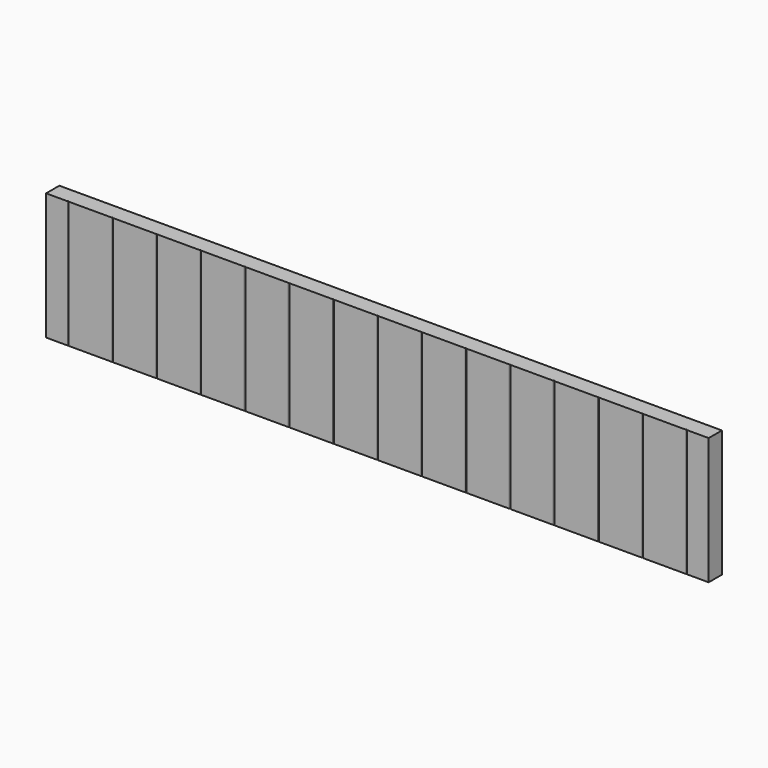
from build123d import *

# Parameters (mm, degrees)
F1_DEPTH = 146.05
F2_W     = 343.069662
F2_H     = 137.227848
F2_W_2   = 304.364362
F2_H_2   = 195.285798
F3_DEPTH = 1143
F4_R     = 0.79375
F5_DEPTH = 25.4


with BuildPart() as f1:
    # F0 (on Top) → F1 (new body)
    with BuildSketch(Plane.XY):
        with BuildLine():
            Line((458.216, -9.525), (508, -9.525))
            Line((508, -9.525), (508, 9.525))
            Line((508, 9.525), (-508, 9.525))
            Line((-508, 9.525), (-508, -8.509))
            ThreePointArc((-508, -8.509), (-507.70242, -9.22742), (-506.984, -9.525))
            Line((-506.984, -9.525), (-458.216, -9.525))
            ThreePointArc((-458.216, -9.525), (-457.49758, -9.22742), (-457.2, -8.509))
            ThreePointArc((-457.2, -8.509), (-456.90242, -9.22742), (-456.184, -9.525))
            Line((-456.184, -9.525), (-407.416, -9.525))
            ThreePointArc((-407.416, -9.525), (-406.69758, -9.22742), (-406.4, -8.509))
            ThreePointArc((-406.4, -8.509), (-406.10242, -9.22742), (-405.384, -9.525))
            Line((-405.384, -9.525), (-356.616, -9.525))
            ThreePointArc((-356.616, -9.525), (-355.89758, -9.22742), (-355.6, -8.509))
            ThreePointArc((-355.6, -8.509), (-355.30242, -9.22742), (-354.584, -9.525))
            Line((-354.584, -9.525), (-305.816, -9.525))
            ThreePointArc((-305.816, -9.525), (-305.09758, -9.22742), (-304.8, -8.509))
            ThreePointArc((-304.8, -8.509), (-304.50242, -9.22742), (-303.784, -9.525))
            Line((-303.784, -9.525), (-255.016, -9.525))
            ThreePointArc((-255.016, -9.525), (-254.29758, -9.22742), (-254, -8.509))
            ThreePointArc((-254, -8.509), (-253.70242, -9.22742), (-252.984, -9.525))
            Line((-252.984, -9.525), (-204.216, -9.525))
            ThreePointArc((-204.216, -9.525), (-203.49758, -9.22742), (-203.2, -8.509))
            ThreePointArc((-203.2, -8.509), (-202.90242, -9.22742), (-202.184, -9.525))
            Line((-202.184, -9.525), (-153.416, -9.525))
            ThreePointArc((-153.416, -9.525), (-152.69758, -9.22742), (-152.4, -8.509))
            ThreePointArc((-152.4, -8.509), (-152.10242, -9.22742), (-151.384, -9.525))
            Line((-151.384, -9.525), (-102.616, -9.525))
            ThreePointArc((-102.616, -9.525), (-101.89758, -9.22742), (-101.6, -8.509))
            ThreePointArc((-101.6, -8.509), (-101.30242, -9.22742), (-100.584, -9.525))
            Line((-100.584, -9.525), (-51.816, -9.525))
            ThreePointArc((-51.816, -9.525), (-51.09758, -9.22742), (-50.8, -8.509))
            ThreePointArc((-50.8, -8.509), (-50.50242, -9.22742), (-49.784, -9.525))
            Line((-49.784, -9.525), (-1.016, -9.525))
            ThreePointArc((-1.016, -9.525), (-0.29758, -9.22742), (0, -8.509))
            ThreePointArc((0, -8.509), (0.29758, -9.22742), (1.016, -9.525))
            Line((1.016, -9.525), (49.784, -9.525))
            ThreePointArc((49.784, -9.525), (50.50242, -9.22742), (50.8, -8.509))
            ThreePointArc((50.8, -8.509), (51.09758, -9.22742), (51.816, -9.525))
            Line((51.816, -9.525), (100.584, -9.525))
            ThreePointArc((100.584, -9.525), (101.30242, -9.22742), (101.6, -8.509))
            ThreePointArc((101.6, -8.509), (101.89758, -9.22742), (102.616, -9.525))
            Line((102.616, -9.525), (151.384, -9.525))
            ThreePointArc((151.384, -9.525), (152.10242, -9.22742), (152.4, -8.509))
            ThreePointArc((152.4, -8.509), (152.69758, -9.22742), (153.416, -9.525))
            Line((153.416, -9.525), (202.184, -9.525))
            ThreePointArc((202.184, -9.525), (202.90242, -9.22742), (203.2, -8.509))
            ThreePointArc((203.2, -8.509), (203.49758, -9.22742), (204.216, -9.525))
            Line((204.216, -9.525), (252.984, -9.525))
            ThreePointArc((252.984, -9.525), (253.70242, -9.22742), (254, -8.509))
            ThreePointArc((254, -8.509), (254.29758, -9.22742), (255.016, -9.525))
            Line((255.016, -9.525), (303.784, -9.525))
            ThreePointArc((303.784, -9.525), (304.50242, -9.22742), (304.8, -8.509))
            ThreePointArc((304.8, -8.509), (305.09758, -9.22742), (305.816, -9.525))
            Line((305.816, -9.525), (354.584, -9.525))
            ThreePointArc((354.584, -9.525), (355.30242, -9.22742), (355.6, -8.509))
            ThreePointArc((355.6, -8.509), (355.89758, -9.22742), (356.616, -9.525))
            Line((356.616, -9.525), (405.384, -9.525))
            ThreePointArc((405.384, -9.525), (406.10242, -9.22742), (406.4, -8.509))
            ThreePointArc((406.4, -8.509), (406.69758, -9.22742), (407.416, -9.525))
            Line((407.416, -9.525), (456.184, -9.525))
            ThreePointArc((456.184, -9.525), (456.90242, -9.22742), (457.2, -8.509))
            ThreePointArc((457.2, -8.509), (457.49758, -9.22742), (458.216, -9.525))
        make_face()
        with BuildLine():
            ThreePointArc((-506.984, -9.525), (-507.70242, -9.22742), (-508, -8.509))
            Line((-508, -8.509), (-508, -9.525))
            Line((-508, -9.525), (-506.984, -9.525))
        make_face()
    extrude(amount=F1_DEPTH)

    # F2 (on Top) → F3 (cut)
    with BuildSketch(Plane.XY):
        with Locations((552.534831, -20.971623)):
            Rectangle(F2_W, F2_H)
        with Locations((-533.182181, -39.444607)):
            Rectangle(F2_W_2, F2_H_2)
    extrude(amount=F3_DEPTH, mode=Mode.SUBTRACT)

    # F4 (on Front) → F5 (cut)
    with BuildSketch(Plane.XZ):
        with Locations((-293.6875, 123.825)):
            Circle(F4_R)
        with Locations((-281.78125, 136.525)):
            Circle(F4_R)
        with Locations((-305.59375, 136.525)):
            Circle(F4_R)
        with Locations((293.6875, 123.825)):
            Circle(F4_R)
        with Locations((305.59375, 136.525)):
            Circle(F4_R)
        with Locations((281.78125, 136.525)):
            Circle(F4_R)
    extrude(amount=-F5_DEPTH, mode=Mode.SUBTRACT)


solid = f1.part
